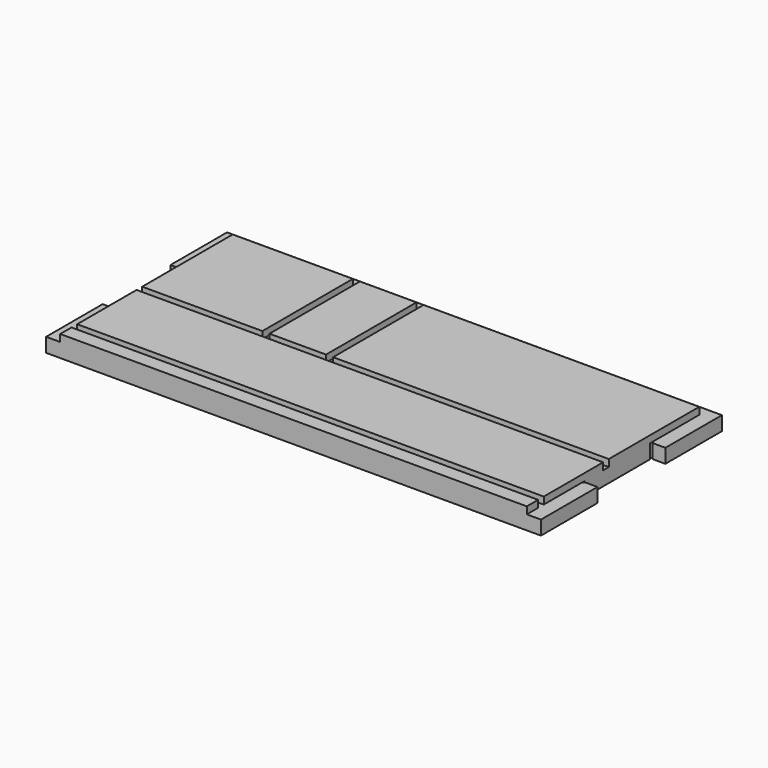
from build123d import *

# Parameters (mm, degrees)
F0_W     = 222.25
F0_H     = 101.6
F1_DEPTH = 9.525
F2_W     = 6.35
F2_H     = 38.1
F3_DEPTH = 9.526
F4_W     = 6.35
F4_H     = 31.75
F5_DEPTH = 3.175
F6_W     = 209.55
F6_H     = 3.175
F6_W_2   = 3.175
F6_H_2   = 50.8
F7_DEPTH = 3.175
F9_DEPTH = 6.35


with BuildPart() as f1:
    # F0 (on Top) → F1 (new body)
    with BuildSketch(Plane.XY):
        Rectangle(F0_W, F0_H)
    extrude(amount=F1_DEPTH)

    # F2 (on face) → F3 (cut, through all)
    with BuildSketch(Plane.XY.offset(9.525)):
        with Locations((-107.95, 0)):
            Rectangle(F2_W, F2_H)
        with Locations((107.95, 0)):
            Rectangle(F2_W, F2_H)
    extrude(amount=-F3_DEPTH, mode=Mode.SUBTRACT)

    # F4 (on face) → F5 (cut)
    with BuildSketch(Plane.XY.offset(9.525)):
        Polygon((-111.125, 19.05), (-104.775, 19.05), (-104.775, 46.0248), (104.775, 46.0248), (104.775, 19.05), (111.125, 19.05), (111.125, 50.8), (-111.125, 50.8), align=None)
        with Locations((-107.95, -34.925)):
            Rectangle(F4_W, F4_H)
        with Locations((107.95, -34.925)):
            Rectangle(F4_W, F4_H)
    extrude(amount=-F5_DEPTH, mode=Mode.SUBTRACT)

    # F6 (on face) → F7 (cut)
    with BuildSketch(Plane.XY.offset(9.525)):
        with Locations((0, -42.8625)):
            Rectangle(F6_W, F6_H)
        Polygon((-50.8, -4.7752), (-104.775, -4.7752), (-104.775, -7.9502), (104.775, -7.9502), (104.775, -4.7752), (-19.05, -4.7752), (-22.225, -4.7752), (-47.625, -4.7752), align=None)
        with Locations((-49.2125, 20.6248)):
            Rectangle(F6_W_2, F6_H_2)
        with Locations((-20.6375, 20.6248)):
            Rectangle(F6_W_2, F6_H_2)
    extrude(amount=-F7_DEPTH, mode=Mode.SUBTRACT)

    # F8 (on face) → F9 (cut, through all)
    with BuildSketch(Plane(origin=(0, 0, 0), x_dir=(1, 0, 0), z_dir=(0, 0, -1))):
        with BuildLine():
            Line((104.775, -19.05), (104.775, -18.415))
            ThreePointArc((104.775, -18.415), (104.325987, -19.499013), (105.41, -19.05))
            Line((105.41, -19.05), (104.775, -19.05))
        make_face()
        with BuildLine():
            ThreePointArc((105.41, 19.05), (104.325987, 19.499013), (104.775, 18.415))
            Line((104.775, 18.415), (104.775, 19.05))
            Line((104.775, 19.05), (105.41, 19.05))
        make_face()
        with BuildLine():
            Line((-104.775, 19.05), (-104.775, 18.415))
            ThreePointArc((-104.775, 18.415), (-104.325987, 19.499013), (-105.41, 19.05))
            Line((-105.41, 19.05), (-104.775, 19.05))
        make_face()
        with BuildLine():
            ThreePointArc((-105.41, -19.05), (-104.325987, -19.499013), (-104.775, -18.415))
            Line((-104.775, -18.415), (-104.775, -19.05))
            Line((-104.775, -19.05), (-105.41, -19.05))
        make_face()
    extrude(amount=-F9_DEPTH, mode=Mode.SUBTRACT)


solid = f1.part
